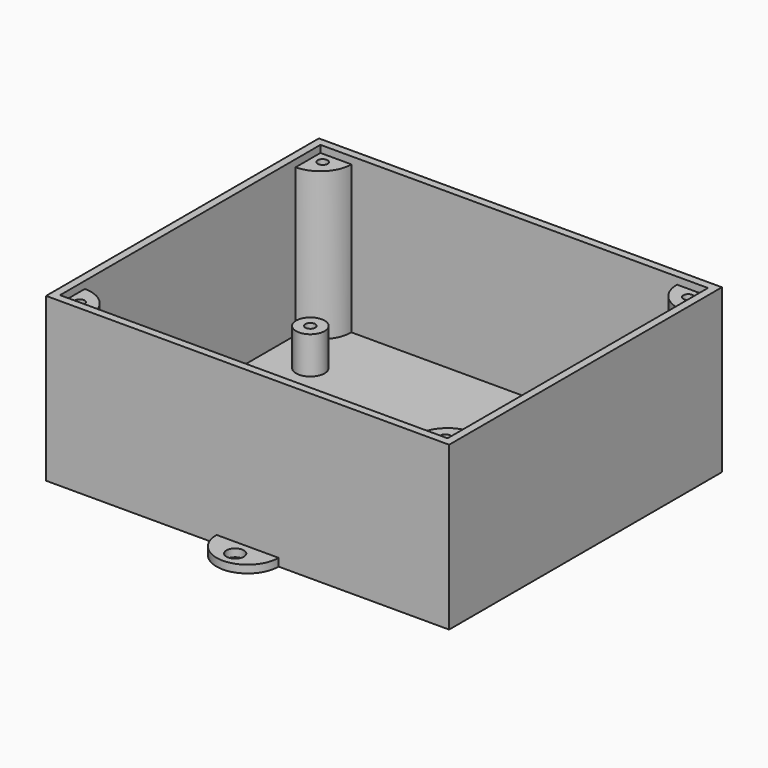
from build123d import *

# Parameters (mm, degrees)
F0_R      = 1.778
F1_DEPTH  = 1.5875
F3_DEPTH  = 31.75
F4_R      = 2.921
F4_R_2    = 1.016
F5_DEPTH  = 7.62
F6_DEPTH  = 30.2895
F8_R      = 1.016
F9_DEPTH  = 12.7
F7_R      = 1.016
F10_DEPTH = 12.7
F11_R     = 1.016
F12_DEPTH = 12.7
F13_R     = 1.016
F14_DEPTH = 12.7


with BuildPart() as f1:
    # F0 (on Top) → F1 (new body)
    with BuildSketch(Plane.XY):
        with BuildLine():
            ThreePointArc((34.925, 0), (41.275, 6.35), (47.625, 0))
            Line((47.625, 0), (82.55, 0))
            Line((82.55, 0), (82.55, 69.85))
            Line((82.55, 69.85), (47.625, 69.85))
            ThreePointArc((47.625, 69.85), (41.275, 63.5), (34.925, 69.85))
            Line((34.925, 69.85), (0, 69.85))
            Line((0, 69.85), (0, 0))
            Line((0, 0), (34.925, 0))
        make_face()
        with BuildLine():
            Line((34.925, 69.85), (47.625, 69.85))
            ThreePointArc((47.625, 69.85), (41.275, 76.2), (34.925, 69.85))
        make_face()
        with Locations((41.275, 73.025)):
            Circle(F0_R, mode=Mode.SUBTRACT)
        with BuildLine():
            ThreePointArc((34.925, 69.85), (41.275, 63.5), (47.625, 69.85))
            Line((47.625, 69.85), (34.925, 69.85))
        make_face()
        with BuildLine():
            Line((34.925, 0), (47.625, 0))
            ThreePointArc((47.625, 0), (41.275, 6.35), (34.925, 0))
        make_face()
        with BuildLine():
            ThreePointArc((34.925, 0), (41.275, -6.35), (47.625, 0))
            Line((47.625, 0), (34.925, 0))
        make_face()
        with Locations((41.275, -3.175)):
            Circle(F0_R, mode=Mode.SUBTRACT)
    extrude(amount=F1_DEPTH)

    # F2 (on face) → F3 (join)
    with BuildSketch(Plane.XY.offset(1.5875)):
        Polygon((1.5875, 68.2625), (1.5875, 69.85), (0, 69.85), (0, 1.5875), (1.5875, 1.5875), (1.5875, 7.9375), (1.5875, 61.9125), align=None)
        Polygon((47.625, 0), (80.9625, 0), (80.9625, 1.5875), (74.6125, 1.5875), (7.9375, 1.5875), (1.5875, 1.5875), (0, 1.5875), (0, 0), (34.925, 0), align=None)
        Polygon((82.55, 0), (82.55, 69.85), (80.9625, 69.85), (80.9625, 68.2625), (80.9625, 61.9125), (80.9625, 7.9375), (80.9625, 1.5875), (80.9625, 0), align=None)
        Polygon((80.9625, 68.2625), (80.9625, 69.85), (47.625, 69.85), (34.925, 69.85), (1.5875, 69.85), (1.5875, 68.2625), (7.9375, 68.2625), (74.6125, 68.2625), align=None)
    extrude(amount=F3_DEPTH)

    # F4 (on face) → F5 (join)
    with BuildSketch(Plane.XY.offset(1.5875)):
        with Locations((10.541, 13.462)):
            Circle(F4_R)
        with Locations((10.541, 13.462)):
            Circle(F4_R_2, mode=Mode.SUBTRACT)
        with Locations((77.216, 13.462)):
            Circle(F4_R)
        with Locations((77.216, 13.462)):
            Circle(F4_R_2, mode=Mode.SUBTRACT)
        with Locations((10.541, 54.483)):
            Circle(F4_R)
        with Locations((10.541, 54.483)):
            Circle(F4_R_2, mode=Mode.SUBTRACT)
        with Locations((77.216, 54.483)):
            Circle(F4_R)
        with Locations((77.216, 54.483)):
            Circle(F4_R_2, mode=Mode.SUBTRACT)
    extrude(amount=F5_DEPTH)

    # F2 (on face) → F6 (join)
    with BuildSketch(Plane.XY.offset(1.5875)):
        with BuildLine():
            ThreePointArc((1.5875, 61.9125), (6.0776280605, 63.7723719395), (7.9375, 68.2625))
            Line((7.9375, 68.2625), (1.5875, 68.2625))
            Line((1.5875, 68.2625), (1.5875, 61.9125))
        make_face()
        with BuildLine():
            Line((80.9625, 61.9125), (80.9625, 68.2625))
            Line((80.9625, 68.2625), (74.6125, 68.2625))
            ThreePointArc((74.6125, 68.2625), (76.4723719395, 63.7723719395), (80.9625, 61.9125))
        make_face()
        with BuildLine():
            Line((1.5875, 1.5875), (7.9375, 1.5875))
            ThreePointArc((7.9375, 1.5875), (6.0776280605, 6.0776280605), (1.5875, 7.9375))
            Line((1.5875, 7.9375), (1.5875, 1.5875))
        make_face()
        with BuildLine():
            Line((74.6125, 1.5875), (80.9625, 1.5875))
            Line((80.9625, 1.5875), (80.9625, 7.9375))
            ThreePointArc((80.9625, 7.9375), (76.4723719395, 6.0776280605), (74.6125, 1.5875))
        make_face()
    extrude(amount=F6_DEPTH)

    # F8 (on face) → F9 (cut)
    with BuildSketch(Plane.XY.offset(31.877)):
        with Locations((78.7174359697, 3.8325640303)):
            Circle(F8_R)
    extrude(amount=-F9_DEPTH, mode=Mode.SUBTRACT)

    # F7 (on face) → F10 (cut)
    with BuildSketch(Plane.XY.offset(31.877)):
        with Locations((3.8325640303, 3.8325640303)):
            Circle(F7_R)
    extrude(amount=-F10_DEPTH, mode=Mode.SUBTRACT)

    # F11 (on face) → F12 (cut)
    with BuildSketch(Plane.XY.offset(31.877)):
        with Locations((3.8325640303, 66.0174359697)):
            Circle(F11_R)
    extrude(amount=-F12_DEPTH, mode=Mode.SUBTRACT)

    # F13 (on face) → F14 (cut)
    with BuildSketch(Plane.XY.offset(31.877)):
        with Locations((78.7174359697, 66.0174359697)):
            Circle(F13_R)
        with Locations((78.7174359697, 66.0174359697)):
            Circle(F13_R)
    extrude(amount=-F14_DEPTH, mode=Mode.SUBTRACT)


solid = f1.part
